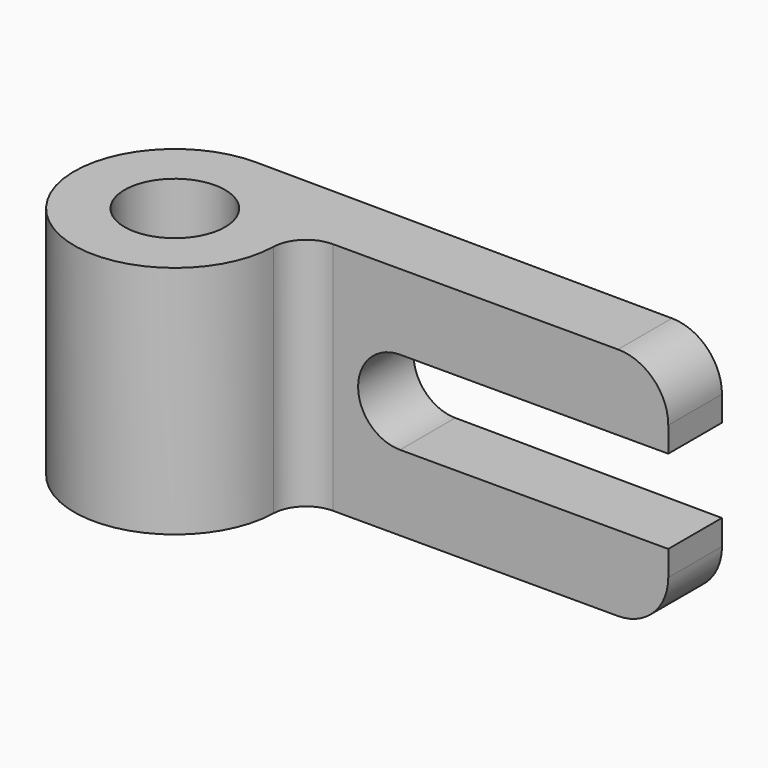
from build123d import *

# Parameters (mm, degrees)
F0_R     = 9.525
F1_DEPTH = 44.45
F3_DEPTH = 13.1434116064


with BuildPart() as f1:
    # F0 (on Top) → F1 (new body)
    with BuildSketch(Plane.XY):
        with BuildLine():
            Line((88.8974784046, 18.380963405), (0.1434807755, 19.0494596581))
            ThreePointArc((0.1434807755, 19.0494596581), (-13.6965953734, -13.2403087266), (19.0433904385, -0.5017774462))
            ThreePointArc((19.0433904385, -0.5017774462), (20.960588849, 3.8798421457), (25.3911872514, 5.680963405))
            Line((25.3911872514, 5.680963405), (88.8974784046, 5.680963405))
            Line((88.8974784046, 5.680963405), (88.8974784046, 18.380963405))
        make_face()
        Circle(F0_R, mode=Mode.SUBTRACT)
    extrude(amount=F1_DEPTH)

    # F2 (on face) → F3 (cut, through all)
    with BuildSketch(Plane.XZ.offset(-5.680963405)):
        with BuildLine():
            Line((88.8974784046, 0), (88.8974784046, 9.525))
            ThreePointArc((88.8974784046, 9.525), (86.1076704955, 2.7898079092), (79.3724784046, 0))
            Line((79.3724784046, 0), (88.8974784046, 0))
        make_face()
        with BuildLine():
            ThreePointArc((79.3724784046, 44.45), (86.1076704955, 41.6601920908), (88.8974784046, 34.925))
            Line((88.8974784046, 34.925), (88.8974784046, 44.45))
            Line((88.8974784046, 44.45), (79.3724784046, 44.45))
        make_face()
        with BuildLine():
            Line((88.8974784046, 30.1625), (38.0974784046, 30.1625))
            ThreePointArc((38.0974784046, 30.1625), (30.1599784046, 22.225), (38.0974784046, 14.2875))
            Line((38.0974784046, 14.2875), (88.8974784046, 14.2875))
            Line((88.8974784046, 14.2875), (88.8974784046, 30.1625))
        make_face()
    extrude(amount=-F3_DEPTH, mode=Mode.SUBTRACT)


solid = f1.part
